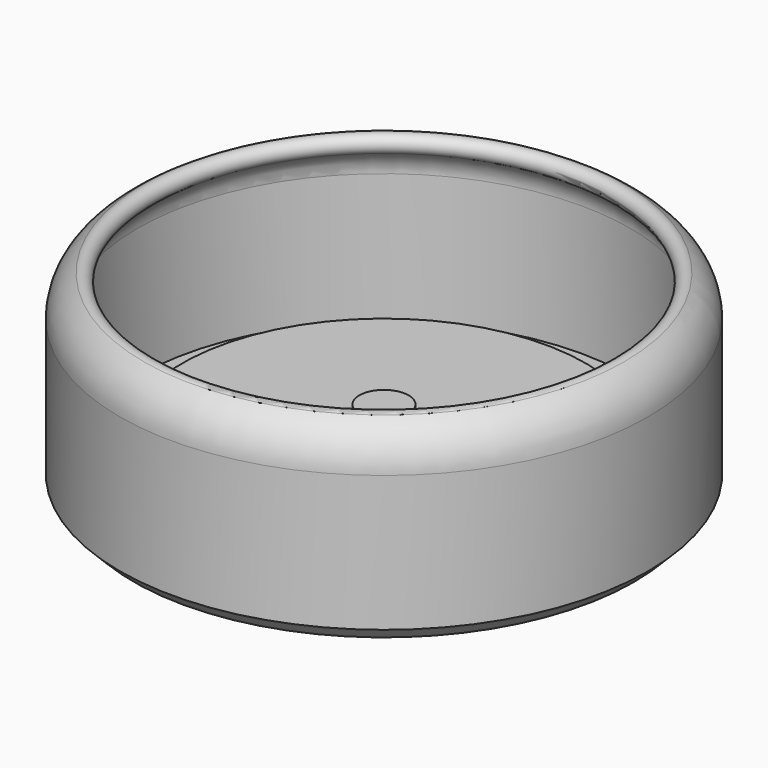
from build123d import *


with BuildPart() as part:
    # Sketch → Revolution (revolve)
    with BuildSketch(Plane.XZ):
        with BuildLine():
            Line((0, 5.6), (2.5, 5.6))
            Line((2.5, 5.6), (2.5, 2.6))
            Line((2.5, 2.6), (20.5, 2.6))
            Line((20.5, 2.6), (19.5, 0))
            Line((19.5, 0), (25, 0))
            Line((25, 0), (25, 13.2))
            ThreePointArc((25, 13.2), (24.598076, 14.7), (23.5, 15.798076))
            ThreePointArc((24.400016, 17.356913), (23.170591, 17.027501), (23.5, 15.798076))
            ThreePointArc((26.8, 13.2), (26.156926, 15.599992), (24.400016, 17.356913))
            Line((26.8, -0.585786), (26.8, 13.2))
            Line((25.385786, -2), (26.8, -0.585786))
            Line((0, -2), (25.385786, -2))
            Line((0, 5.6), (0, -2))
        make_face()
    revolve(axis=Axis((0, 0, 0), (0, 0, 1)))


solid = part.part
